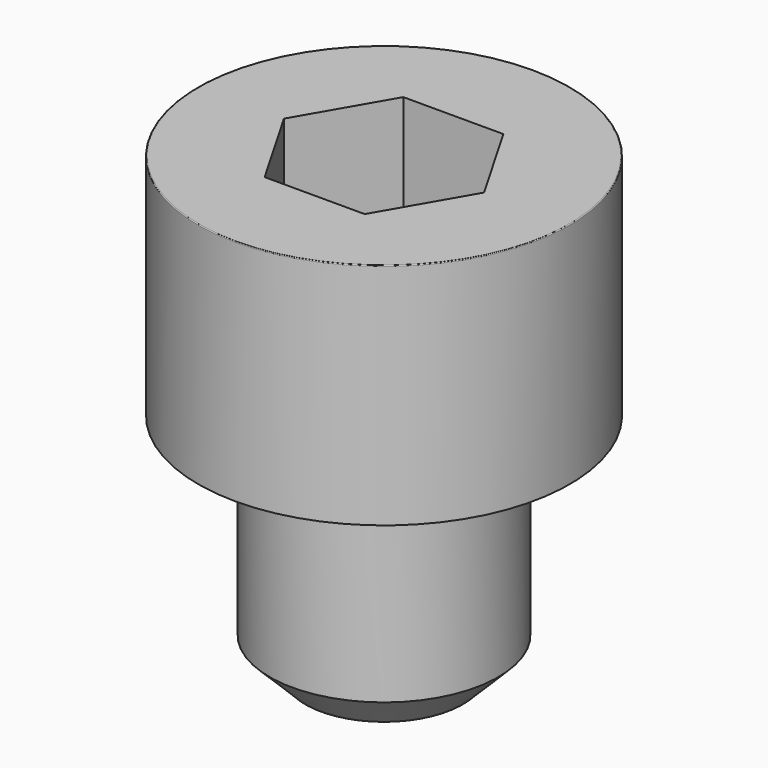
from build123d import *

# Parameters (mm, degrees)
POCKET_DEPTH = 6.06


with BuildPart() as part:
    # Sketch → Revolve (revolve)
    with BuildSketch(Plane.YZ):
        with BuildLine():
            Line((3.999, 0), (6.5, 0))
            Line((6.5, 0), (6.5, 7.97229))
            ThreePointArc((6.5, 7.97229), (6.491884, 7.991884), (6.47229, 8))
            Line((6.47229, 8), (0, 8))
            Line((0, -8), (0, 8))
            Line((2.75, -8), (0, -8))
            Line((4, -6.75), (2.75, -8))
            Line((4, -0.2), (4, -6.75))
            Line((3.999, 0), (4, -0.2))
        make_face()
    revolve(axis=Axis((0, 0, 0), (0, 0, 1)))

    # Sketch001 → Pocket (cut)
    with BuildSketch(Plane.XY.offset(8)):
        Polygon((3.498743, 0), (1.749371, 3.03), (-1.749371, 3.03), (-3.498743, 0), (-1.749371, -3.03), (1.749371, -3.03), align=None)
    extrude(amount=-POCKET_DEPTH, mode=Mode.SUBTRACT)


solid = part.part
